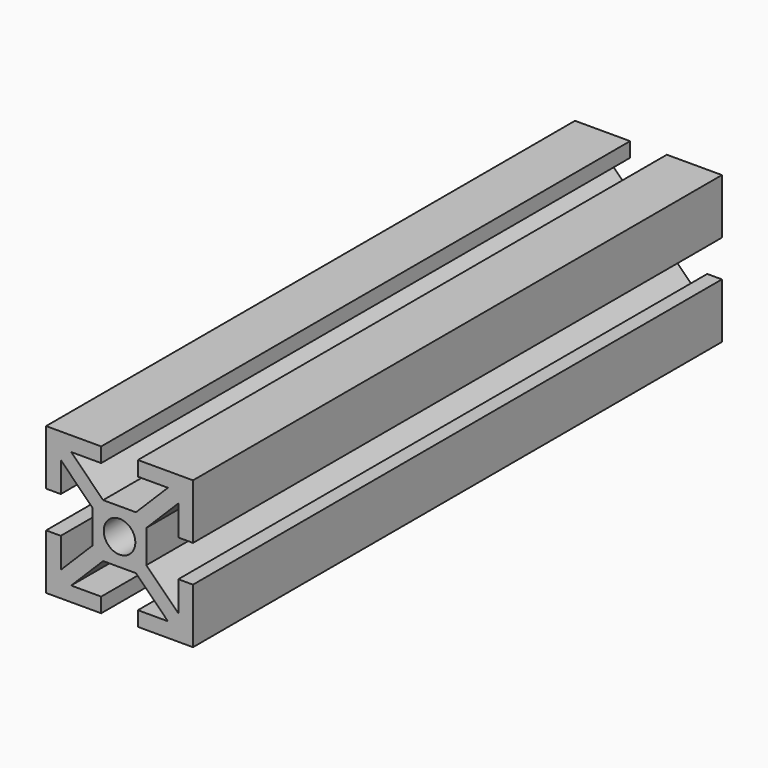
from build123d import *

# Parameters (mm, degrees)
F1_DEPTH = 90


with BuildPart() as f1:
    # F0 (on Front) → F1 (new body)
    with BuildSketch(Plane.XZ):
        Polygon((-2.238045, 9.768403), (-9.738045, 9.768403), (-9.738045, 2.268403), (-7.738045, 2.268403), (-7.738045, 6.35419), (-3.388045, 2.00419), (-3.388045, -0.231597), (-3.388045, -2.467383), (-7.738045, -6.817383), (-7.738045, -2.731597), (-9.738045, -2.731597), (-9.738045, -10.231597), (-2.238045, -10.231597), (-2.238045, -8.231597), (-6.323832, -8.231597), (-1.973832, -3.881597), (2.497741, -3.881597), (6.847741, -8.231597), (2.761955, -8.231597), (2.761955, -10.231597), (10.261955, -10.231597), (10.261955, -2.731597), (8.261955, -2.731597), (8.261955, -6.817383), (3.911955, -2.467383), (3.911955, -0.231597), (3.911955, 2.00419), (8.261955, 6.35419), (8.261955, 2.268403), (10.261955, 2.268403), (10.261955, 9.768403), (2.761955, 9.768403), (2.761955, 7.768403), (6.847741, 7.768403), (2.497741, 3.418403), (-1.973832, 3.418403), (-6.323832, 7.768403), (-2.238045, 7.768403), align=None)
        with BuildLine():
            ThreePointArc((-1.888045, -0.231597), (0.261955, 1.918403), (2.411955, -0.231597))
            ThreePointArc((2.411955, -0.231597), (0.261955, -2.381597), (-1.888045, -0.231597))
        make_face(mode=Mode.SUBTRACT)
    extrude(amount=F1_DEPTH)


solid = f1.part
